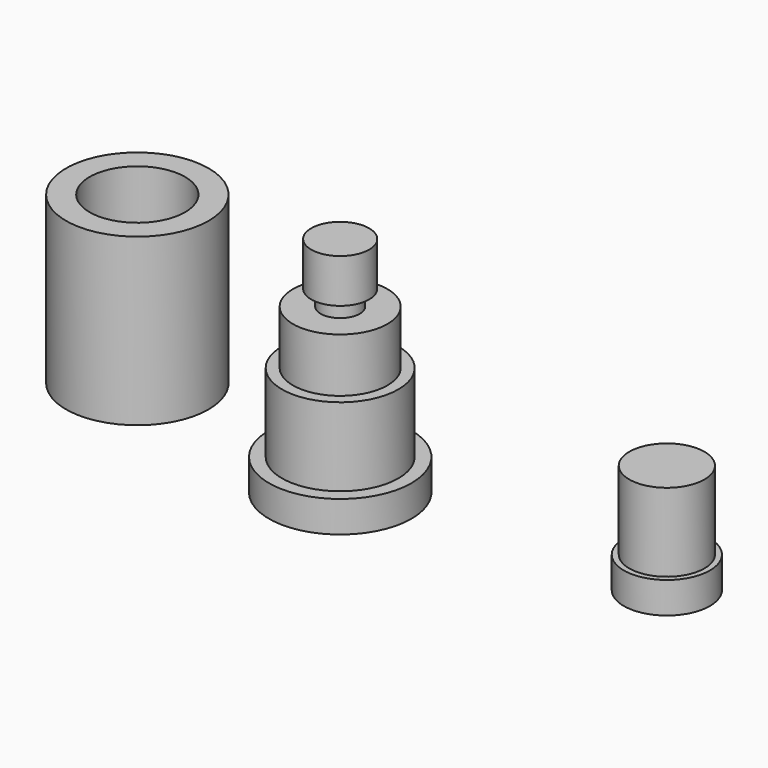
from build123d import *

# Parameters (mm, degrees)
F0_R      = 4.55
F2_DEPTH  = 2
F3_R      = 3.715
F4_DEPTH  = 5
F5_R      = 3.02
F6_DEPTH  = 3.45
F7_R      = 1.25
F8_DEPTH  = 1
F9_R      = 1.85
F9_R_2    = 1.25
F10_DEPTH = 2.8
F1_R      = 4.55
F11_DEPTH = 10.6
F12_R     = 3.05
F13_DEPTH = 8.2
F14_R     = 3.5
F15_DEPTH = 2.4
F16_R     = 2.4
F17_DEPTH = 5
F18_R     = 2.75
F18_R_2   = 2.4
F19_DEPTH = 2


with BuildPart() as f2:
    # F0 (on Top) → F2 (new body)
    with BuildSketch(Plane.XY):
        Circle(F0_R)
    extrude(amount=F2_DEPTH)

    # F3 (on face) → F4 (join)
    with BuildSketch(Plane.XY.offset(2)):
        Circle(F3_R)
    extrude(amount=F4_DEPTH)

    # F5 (on face) → F6 (join)
    with BuildSketch(Plane.XY.offset(7)):
        Circle(F5_R)
    extrude(amount=F6_DEPTH)

    # F7 (on face) → F8 (join)
    with BuildSketch(Plane.XY.offset(10.45)):
        Circle(F7_R)
    extrude(amount=F8_DEPTH)

    # F9 (on face) → F10 (join)
    with BuildSketch(Plane.XY.offset(11.45)):
        Circle(F9_R)
        Circle(F9_R_2, mode=Mode.SUBTRACT)
        Circle(F9_R_2)
    extrude(amount=F10_DEPTH)


with BuildPart() as f11:
    # F1 (on Top) → F11 (new body)
    with BuildSketch(Plane.XY):
        with Locations((-15.2733437717, 2.8996735346)):
            Circle(F1_R)
    extrude(amount=F11_DEPTH)

    # F12 (on face) → F13 (cut)
    with BuildSketch(Plane.XY.offset(10.6)):
        with Locations((-15.2733437717, 2.8996735346)):
            Circle(F12_R)
    extrude(amount=-F13_DEPTH, mode=Mode.SUBTRACT)

    # F14 (on face) → F15 (cut)
    with BuildSketch(Plane(origin=(0, 0, 0), x_dir=(1, 0, 0), z_dir=(0, 0, -1))):
        with Locations((-15.2733437717, -2.8996735346)):
            Circle(F14_R)
    extrude(amount=-F15_DEPTH, mode=Mode.SUBTRACT)


with BuildPart() as f17:
    # F16 (on Top) → F17 (new body)
    with BuildSketch(Plane.XY):
        with Locations((16.9084314257, 4.9387966283)):
            Circle(F16_R)
    extrude(amount=F17_DEPTH)

    # F18 (on face) → F19 (join)
    with BuildSketch(Plane(origin=(0, 0, 0), x_dir=(1, 0, 0), z_dir=(0, 0, -1))):
        with Locations((16.9084314257, -4.9387966283)):
            Circle(F18_R)
        with Locations((16.9084314257, -4.9387966283)):
            Circle(F18_R_2, mode=Mode.SUBTRACT)
        with Locations((16.9084314257, -4.9387966283)):
            Circle(F18_R_2)
    extrude(amount=F19_DEPTH)


solid = Compound([f2.part, f11.part, f17.part])
